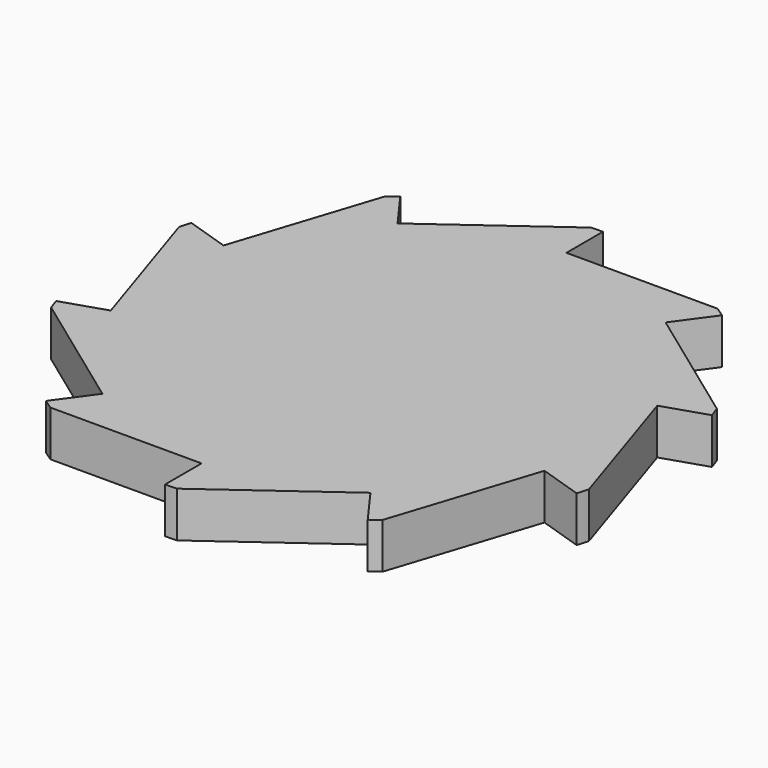
from build123d import *

# Parameters (mm, degrees)
F1_DEPTH = 5


with BuildPart() as f1:
    # F0 (on Top) → F1 (new body)
    with BuildSketch(Plane.XY):
        with BuildLine():
            Line((23.776413, 7.725425), (28.531695, 9.27051))
            ThreePointArc((28.531695, 9.27051), (28.327614, 9.876553), (28.11066, 10.478109))
            Line((28.11066, 10.478109), (14.694631, 20.225425))
            Line((14.694631, 20.225425), (17.633558, 24.27051))
            ThreePointArc((17.633558, 24.27051), (17.112228, 24.640853), (16.583124, 25))
            Line((16.583124, 25), (0, 25))
            Line((0, 25), (0, 30))
            ThreePointArc((0, 30), (-0.639446, 29.993184), (-1.278602, 29.972741))
            Line((-1.278602, 29.972741), (-14.694631, 20.225425))
            Line((-14.694631, 20.225425), (-17.633558, 24.27051))
            ThreePointArc((-17.633558, 24.27051), (-18.146874, 23.889139), (-18.651946, 23.496913))
            Line((-18.651946, 23.496913), (-23.776413, 7.725425))
            Line((-23.776413, 7.725425), (-28.531695, 9.27051))
            ThreePointArc((-28.531695, 9.27051), (-28.722813, 8.660254), (-28.90088, 8.046063))
            Line((-28.90088, 8.046063), (-23.776413, -7.725425))
            Line((-23.776413, -7.725425), (-28.531695, -9.27051))
            ThreePointArc((-28.531695, -9.27051), (-28.327614, -9.876553), (-28.11066, -10.478109))
            Line((-28.11066, -10.478109), (-14.694631, -20.225425))
            Line((-14.694631, -20.225425), (-17.633558, -24.27051))
            ThreePointArc((-17.633558, -24.27051), (-17.112228, -24.640853), (-16.583124, -25))
            Line((-16.583124, -25), (0, -25))
            Line((0, -25), (0, -30))
            ThreePointArc((0, -30), (0.639446, -29.993184), (1.278602, -29.972741))
            Line((1.278602, -29.972741), (14.694631, -20.225425))
            Line((14.694631, -20.225425), (17.633558, -24.27051))
            ThreePointArc((17.633558, -24.27051), (18.146874, -23.889139), (18.651946, -23.496913))
            Line((18.651946, -23.496913), (23.776413, -7.725425))
            Line((23.776413, -7.725425), (28.531695, -9.27051))
            ThreePointArc((28.531695, -9.27051), (28.722813, -8.660254), (28.90088, -8.046063))
            Line((28.90088, -8.046063), (23.776413, 7.725425))
        make_face()
    extrude(amount=F1_DEPTH)


solid = f1.part
